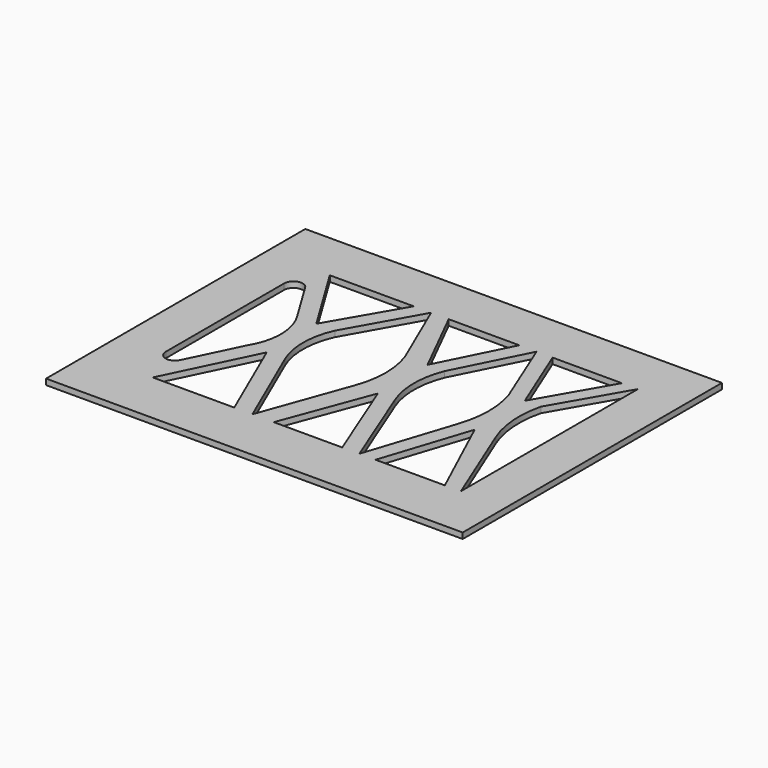
from build123d import *

# Parameters (mm, degrees)
F0_W     = 228.6
F0_H     = 177.8
F1_DEPTH = 3.175
F2_R     = 5.08


with BuildPart() as f1:
    # F0 (on Top) → F1 (new body)
    with BuildSketch(Plane.XY):
        with Locations((-0.871601, -3.897959)):
            Rectangle(F0_W, F0_H)
        Polygon((-35.42317, -63.4338), (-80.133474, -63.4338), (-56.54095, -14.745583), align=None, mode=Mode.SUBTRACT)
        Polygon((23.823941, -63.4338), (-13.718781, -63.4338), (4.465975, -14.745583), align=None, mode=Mode.SUBTRACT)
        Polygon((80.13803, -63.4338), (42.118688, -63.4338), (57.847038, -15.083696), align=None, mode=Mode.SUBTRACT)
        with BuildLine():
            Line((-90.692364, -63.4338), (-90.692364, 57.993443))
            Line((-90.692364, 57.993443), (-67.099841, 19.27751))
            ThreePointArc((-67.099841, 19.27751), (-62.324984, 2.265963), (-67.099841, -14.745583))
            Line((-67.099841, -14.745583), (-90.692364, -63.4338))
        make_face(mode=Mode.SUBTRACT)
        with BuildLine():
            ThreePointArc((-46.568668, -14.745583), (-50.040228, 2.291953), (-46.322669, 19.27751))
            Line((-46.322669, 19.27751), (-24.523671, 57.993443))
            Line((-24.523671, 57.993443), (-7.852732, 19.27751))
            ThreePointArc((-7.852732, 19.27751), (-4.872698, 2.265963), (-7.852732, -14.745583))
            Line((-7.852732, -14.745583), (-25.450888, -63.4338))
            Line((-25.450888, -63.4338), (-46.568668, -14.745583))
        make_face(mode=Mode.SUBTRACT)
        Polygon((-56.54095, 19.27751), (-80.133474, 57.993443), (-34.060732, 57.993443), align=None, mode=Mode.SUBTRACT)
        with BuildLine():
            Line((49.04796, -14.745583), (33.209621, -63.4338))
            Line((33.209621, -63.4338), (13.851655, -14.745583))
            ThreePointArc((13.851655, -14.745583), (10.593866, 2.265963), (13.851655, 19.27751))
            Line((13.851655, 19.27751), (33.31961, 57.993443))
            Line((33.31961, 57.993443), (49.04796, 19.27751))
            ThreePointArc((49.04796, 19.27751), (51.745333, 2.265963), (49.04796, -14.745583))
        make_face(mode=Mode.SUBTRACT)
        Polygon((4.465975, 19.27751), (-14.891991, 57.993443), (23.823941, 57.993443), align=None, mode=Mode.SUBTRACT)
        with BuildLine():
            Line((66.646114, 19.27751), (88.937106, 57.993443))
            Line((88.937106, 57.993443), (88.937106, -63.4338))
            Line((88.937106, -63.4338), (69.157515, -14.745583))
            ThreePointArc((69.157515, -14.745583), (65.224515, 2.06834), (66.646114, 19.27751))
        make_face(mode=Mode.SUBTRACT)
        Polygon((57.847038, 19.27751), (42.118688, 57.993443), (80.13803, 57.993443), align=None, mode=Mode.SUBTRACT)
    extrude(amount=F1_DEPTH)

    # F2
    f2_edges = [f1.edges().sort_by_distance(p)[0] for p in [
        (-90.692364, -63.4338, 1.5875),
        (-90.692364, 57.993443, 1.5875),
    ]]
    fillet(f2_edges, radius=F2_R)


solid = f1.part
